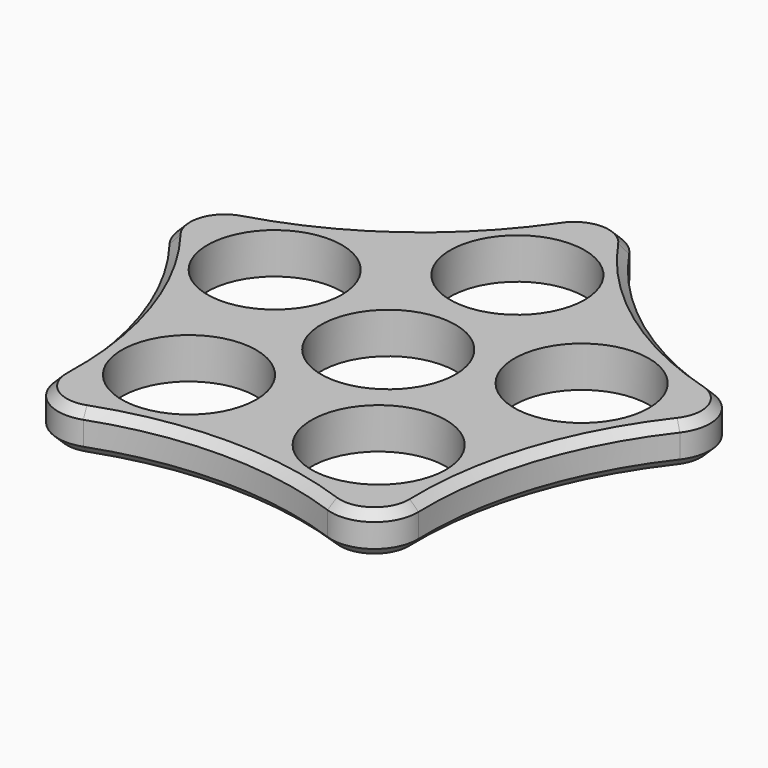
from build123d import *

# Parameters (mm, degrees)
F0_R     = 7.9375
F1_DEPTH = 4.826
F2_R     = 5.08
F3_SIZE  = 1.016


with BuildPart() as f1:
    # F0 (on Top) → F1 (new body)
    with BuildSketch(Plane.XY):
        with BuildLine():
            ThreePointArc((-36.2352532708, 11.7735474857), (-23.2757268131, -7.5627420857), (-22.3946181123, -30.8235474857))
            ThreePointArc((-22.3946181123, -30.8235474857), (0, -24.4735474857), (22.3946181123, -30.8235474857))
            ThreePointArc((22.3946181123, -30.8235474857), (23.2757268131, -7.5627420857), (36.2352532708, 11.7735474857))
            ThreePointArc((36.2352532708, 11.7735474857), (14.3851902834, 19.7995158286), (0, 38.1))
            ThreePointArc((0, 38.1), (-14.3851902834, 19.7995158286), (-36.2352532708, 11.7735474857))
        make_face()
        with Locations((-11.1973090562, -15.4117737428)):
            Circle(F0_R, mode=Mode.SUBTRACT)
        Circle(F0_R, mode=Mode.SUBTRACT)
        with Locations((11.1973090562, -15.4117737428)):
            Circle(F0_R, mode=Mode.SUBTRACT)
        with Locations((-18.1176266354, 5.8867737428)):
            Circle(F0_R, mode=Mode.SUBTRACT)
        with Locations((0, 19.05)):
            Circle(F0_R, mode=Mode.SUBTRACT)
        with Locations((18.1176266354, 5.8867737428)):
            Circle(F0_R, mode=Mode.SUBTRACT)
    extrude(amount=F1_DEPTH)

    # F2
    f2_edges = [f1.edges().sort_by_distance(p)[0] for p in [
        (0, 38.1, 2.413),
        (36.235253, 11.773547, 2.413),
        (22.394618, -30.823547, 2.413),
        (-22.394618, -30.823547, 2.413),
        (-36.235253, 11.773547, 2.413),
    ]]
    fillet(f2_edges, radius=F2_R)

    # F3
    f3_edges = [f1.edges().sort_by_distance(p)[0] for p in [
        (-30.929782, 10.049695, 0),
        (-23.275727, -7.562742, 4.826),
    ]]
    chamfer(f3_edges, length=F3_SIZE)


solid = f1.part
